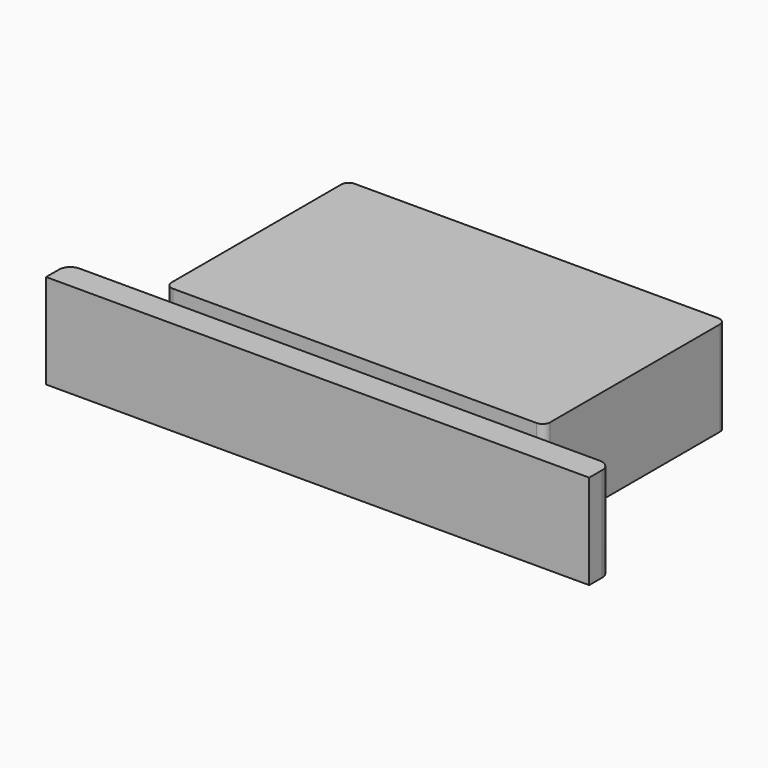
from build123d import *

# Parameters (mm, degrees)
F1_DEPTH = 25


with BuildPart() as f1:
    # F0 (on Top) → F1 (new body)
    with BuildSketch(Plane.XY):
        with BuildLine():
            Line((48, 30), (-48, 30))
            ThreePointArc((-48, 30), (-49.414214, 29.414214), (-50, 28))
            Line((-50, 28), (-50, -28))
            ThreePointArc((-50, -28), (-49.414214, -29.414214), (-48, -30))
            Line((-48, -30), (48, -30))
            ThreePointArc((48, -30), (49.414214, -29.414214), (50, -28))
            Line((50, -28), (50, 28))
            ThreePointArc((50, 28), (49.414214, 29.414214), (48, 30))
        make_face()
        with BuildLine():
            Line((55, -35), (-55, -35))
            Line((-55, -35), (-68.719673, -35))
            ThreePointArc((-68.719673, -35), (-70.840993, -35.87868), (-71.719673, -38))
            Line((-71.719673, -38), (-71.719673, -42.266082))
            Line((-71.719673, -42.266082), (71.719673, -42.266082))
            Line((71.719673, -42.266082), (71.719673, -38))
            ThreePointArc((71.719673, -38), (70.840993, -35.87868), (68.719673, -35))
            Line((68.719673, -35), (55, -35))
        make_face()
    extrude(amount=F1_DEPTH)


solid = f1.part
